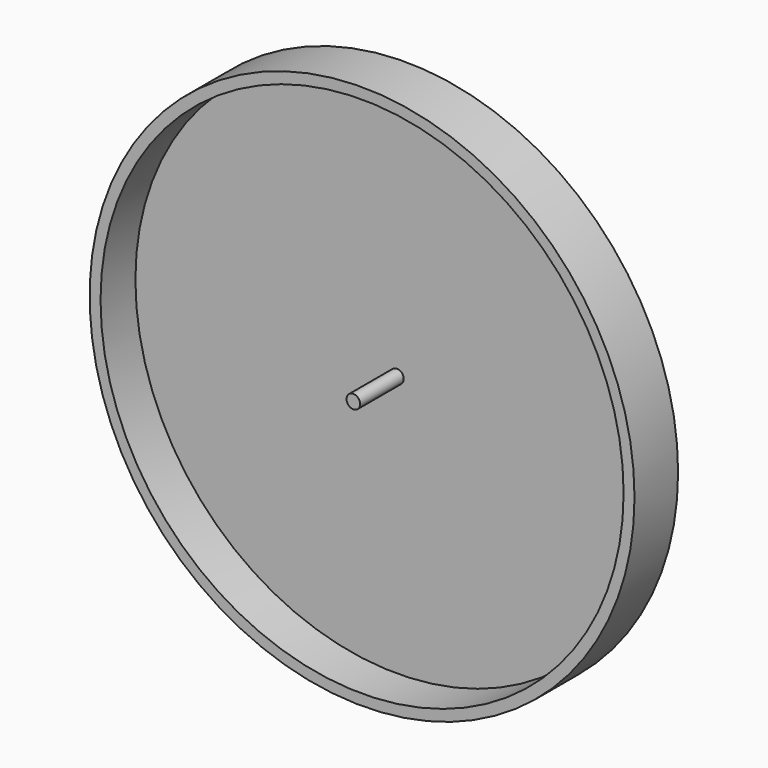
from build123d import *

# Parameters (mm, degrees)
F0_R     = 63.5
F1_DEPTH = 12.7
F2_T     = -2.54
F3_R     = 1.5875
F4_DEPTH = 12.7


with BuildPart() as f1:
    # F0 (on Front) → F1 (new body)
    with BuildSketch(Plane.XZ):
        Circle(F0_R)
    extrude(amount=F1_DEPTH)

    # F2
    f2_openings = [f1.faces().sort_by_distance(p)[0] for p in [
        (0, -12.7, 0),
    ]]
    offset(amount=F2_T, openings=f2_openings)

    # F3 (on face) → F4 (join)
    with BuildSketch(Plane.XZ.offset(2.54)):
        Circle(F3_R)
    extrude(amount=F4_DEPTH)


solid = f1.part
